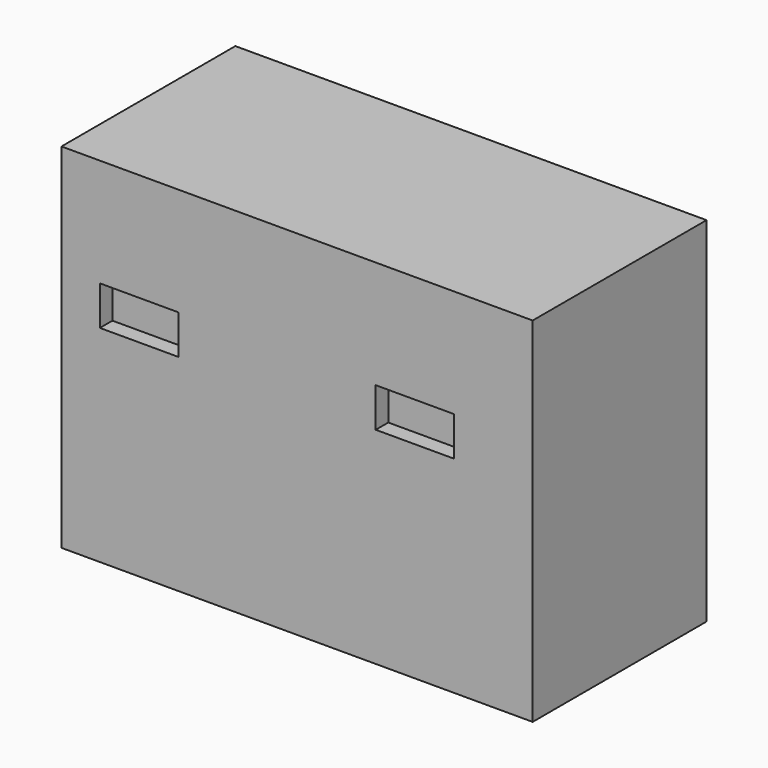
from build123d import *

# Parameters (mm, degrees)
F0_W     = 152.4
F0_H     = 70.293026
F1_DEPTH = 12.7
F2_W     = 6.35
F2_H     = 57.593026
F3_DEPTH = 76.2
F4_W     = 25.4
F4_H     = 50.8
F4_H_2   = 12.7
F5_DEPTH = 6.35
F6_W     = 25.4
F6_H     = 12.7
F7_DEPTH = 5.08
F8_W     = 152.4
F8_H     = 70.293026
F9_DEPTH = 25.4


with BuildPart() as f1:
    # F0 (on Top) → F1 (new body)
    with BuildSketch(Plane.XY):
        Rectangle(F0_W, F0_H)
    extrude(amount=F1_DEPTH)

    # F2 (on face) → F3 (join)
    with BuildSketch(Plane.XY.offset(12.7)):
        Polygon((-70.562325, 35.146513), (-76.2, 35.146513), (-76.2, 28.796513), (-69.85, 28.796513), (69.85, 28.796513), (76.2, 28.796513), (76.2, 35.146513), (-63.181333, 35.146513), align=None)
        with Locations((-73.025, 0)):
            Rectangle(F2_W, F2_H)
        Polygon((-69.85, -28.796513), (-76.2, -28.796513), (-76.2, -35.146513), (76.2, -35.146513), (76.2, -28.796513), (69.85, -28.796513), align=None)
        with Locations((73.025, 0)):
            Rectangle(F2_W, F2_H)
    extrude(amount=F3_DEPTH)

    # F4 (on face) → F5 (cut, through all)
    with BuildSketch(Plane(origin=(0, 35.146513, 0), x_dir=(-1, 0, 0), z_dir=(0, 1, 0))):
        with Locations((-0.226117, 38.1)):
            Rectangle(F4_W, F4_H)
        with Locations((-44.232082, 66.113808)):
            Rectangle(F4_W, F4_H_2)
        with Locations((42.445415, 66.433654)):
            Rectangle(F4_W, F4_H_2)
    extrude(amount=-F5_DEPTH, mode=Mode.SUBTRACT)

    # F6 (on face) → F7 (cut)
    with BuildSketch(Plane.XZ.offset(35.146513)):
        with Locations((-51.077663, 73.014069)):
            Rectangle(F6_W, F6_H)
        with Locations((38.134995, 73.027868)):
            Rectangle(F6_W, F6_H)
    extrude(amount=-F7_DEPTH, mode=Mode.SUBTRACT)

    # F8 (on face) → F9 (join)
    with BuildSketch(Plane.XY.offset(88.9)):
        Rectangle(F8_W, F8_H)
    extrude(amount=F9_DEPTH)


solid = f1.part
